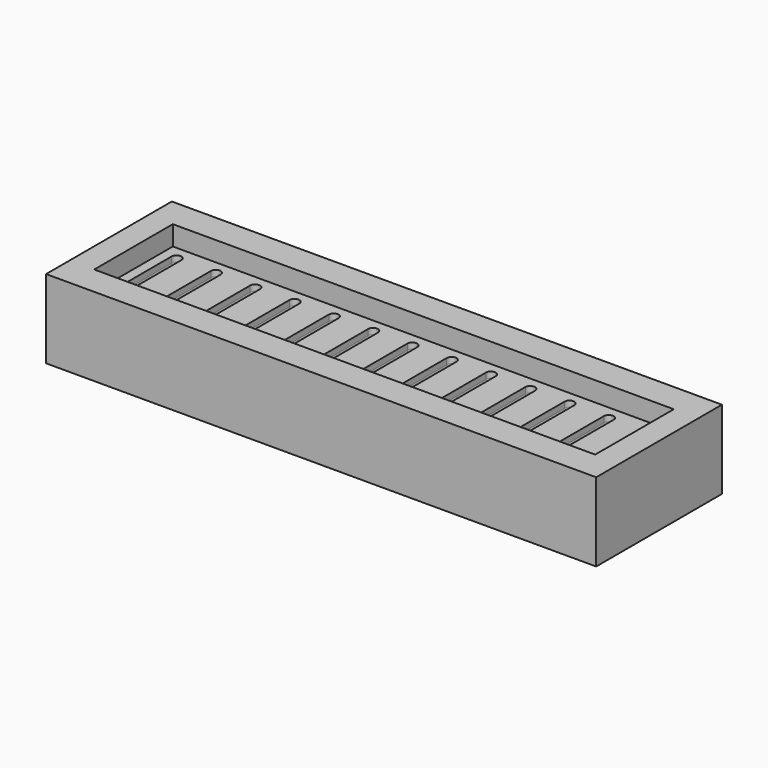
from build123d import *

# Parameters (mm, degrees)
F0_W     = 35.56
F0_H     = 10.16
F1_DEPTH = 5.08
F2_W     = 32.385
F2_H     = 6.35
F3_DEPTH = 1.27
F5_DEPTH = 0.635
F6_R     = 0.254


with BuildPart() as f1:
    # F0 (on Top) → F1 (new body)
    with BuildSketch(Plane.XY):
        Rectangle(F0_W, F0_H)
    extrude(amount=F1_DEPTH)

    # F2 (on face) → F3 (cut)
    with BuildSketch(Plane.XY.offset(5.08)):
        Rectangle(F2_W, F2_H)
    extrude(amount=-F3_DEPTH, mode=Mode.SUBTRACT)

    # F4 (on face) → F5 (cut)
    with BuildSketch(Plane.XY.offset(3.81)):
        with BuildLine():
            ThreePointArc((0.3175, 2.286), (0, 2.6035), (-0.3175, 2.286))
            Line((-0.3175, 2.286), (-0.3175, -2.286))
            ThreePointArc((-0.3175, -2.286), (0, -2.6035), (0.3175, -2.286))
            Line((0.3175, -2.286), (0.3175, 2.286))
        make_face()
        with BuildLine():
            ThreePointArc((2.8575, 2.286), (2.54, 2.6035), (2.2225, 2.286))
            Line((2.2225, 2.286), (2.2225, -2.286))
            ThreePointArc((2.2225, -2.286), (2.54, -2.6035), (2.8575, -2.286))
            Line((2.8575, -2.286), (2.8575, 2.286))
        make_face()
        with BuildLine():
            ThreePointArc((5.3975, 2.286), (5.08, 2.6035), (4.7625, 2.286))
            Line((4.7625, 2.286), (4.7625, -2.286))
            ThreePointArc((4.7625, -2.286), (5.08, -2.6035), (5.3975, -2.286))
            Line((5.3975, -2.286), (5.3975, 2.286))
        make_face()
        with BuildLine():
            ThreePointArc((7.9375, 2.286), (7.62, 2.6035), (7.3025, 2.286))
            Line((7.3025, 2.286), (7.3025, -2.286))
            ThreePointArc((7.3025, -2.286), (7.62, -2.6035), (7.9375, -2.286))
            Line((7.9375, -2.286), (7.9375, 2.286))
        make_face()
        with BuildLine():
            ThreePointArc((10.4775, 2.286), (10.16, 2.6035), (9.8425, 2.286))
            Line((9.8425, 2.286), (9.8425, -2.286))
            ThreePointArc((9.8425, -2.286), (10.16, -2.6035), (10.4775, -2.286))
            Line((10.4775, -2.286), (10.4775, 2.286))
        make_face()
        with BuildLine():
            ThreePointArc((-2.2225, 2.286), (-2.54, 2.6035), (-2.8575, 2.286))
            Line((-2.8575, 2.286), (-2.8575, -2.286))
            ThreePointArc((-2.8575, -2.286), (-2.54, -2.6035), (-2.2225, -2.286))
            Line((-2.2225, -2.286), (-2.2225, 2.286))
        make_face()
        with BuildLine():
            ThreePointArc((-4.7625, 2.286), (-5.08, 2.6035), (-5.3975, 2.286))
            Line((-5.3975, 2.286), (-5.3975, -2.286))
            ThreePointArc((-5.3975, -2.286), (-5.08, -2.6035), (-4.7625, -2.286))
            Line((-4.7625, -2.286), (-4.7625, 2.286))
        make_face()
        with BuildLine():
            ThreePointArc((-7.3025, 2.286), (-7.62, 2.6035), (-7.9375, 2.286))
            Line((-7.9375, 2.286), (-7.9375, -2.286))
            ThreePointArc((-7.9375, -2.286), (-7.62, -2.6035), (-7.3025, -2.286))
            Line((-7.3025, -2.286), (-7.3025, 2.286))
        make_face()
        with BuildLine():
            ThreePointArc((-9.8425, 2.286), (-10.16, 2.6035), (-10.4775, 2.286))
            Line((-10.4775, 2.286), (-10.4775, -2.286))
            ThreePointArc((-10.4775, -2.286), (-10.16, -2.6035), (-9.8425, -2.286))
            Line((-9.8425, -2.286), (-9.8425, 2.286))
        make_face()
        with BuildLine():
            ThreePointArc((13.0175, 2.286), (12.7, 2.6035), (12.3825, 2.286))
            Line((12.3825, 2.286), (12.3825, -2.286))
            ThreePointArc((12.3825, -2.286), (12.7, -2.6035), (13.0175, -2.286))
            Line((13.0175, -2.286), (13.0175, 2.286))
        make_face()
        with BuildLine():
            ThreePointArc((15.5575, 2.286), (15.24, 2.6035), (14.9225, 2.286))
            Line((14.9225, 2.286), (14.9225, -2.286))
            ThreePointArc((14.9225, -2.286), (15.24, -2.6035), (15.5575, -2.286))
            Line((15.5575, -2.286), (15.5575, 2.286))
        make_face()
        with BuildLine():
            ThreePointArc((-12.3825, 2.286), (-12.7, 2.6035), (-13.0175, 2.286))
            Line((-13.0175, 2.286), (-13.0175, -2.286))
            ThreePointArc((-13.0175, -2.286), (-12.7, -2.6035), (-12.3825, -2.286))
            Line((-12.3825, -2.286), (-12.3825, 2.286))
        make_face()
        with BuildLine():
            ThreePointArc((-14.9225, 2.286), (-15.24, 2.6035), (-15.5575, 2.286))
            Line((-15.5575, 2.286), (-15.5575, -2.286))
            ThreePointArc((-15.5575, -2.286), (-15.24, -2.6035), (-14.9225, -2.286))
            Line((-14.9225, -2.286), (-14.9225, 2.286))
        make_face()
    extrude(amount=-F5_DEPTH, mode=Mode.SUBTRACT)

    # F6
    f6_edges = [f1.edges().sort_by_distance(p)[0] for p in [
        (-10.4775, 0, 3.175),
        (-7.9375, 0, 3.175),
        (-5.3975, 0, 3.175),
        (-2.8575, 0, 3.175),
        (-0.3175, 0, 3.175),
        (2.2225, 0, 3.175),
        (4.7625, 0, 3.175),
        (7.3025, 0, 3.175),
        (9.8425, 0, 3.175),
        (-15.5575, 0, 3.175),
        (-13.0175, 0, 3.175),
        (12.3825, 0, 3.175),
        (14.9225, 0, 3.175),
    ]]
    fillet(f6_edges, radius=F6_R)


solid = f1.part
